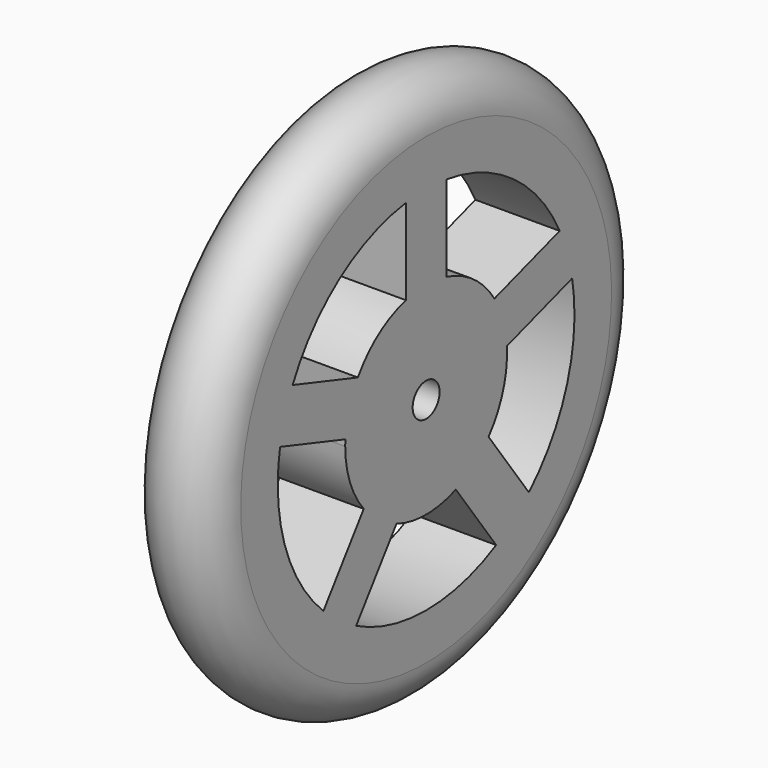
from build123d import *

# Parameters (mm, degrees)
F3_DEPTH = 25


with BuildPart() as f1:
    # F0 (on Front) → F1 (revolve)
    with BuildSketch(Plane.XZ):
        with BuildLine():
            Line((-10, 55), (-10, 4))
            Line((-10, 4), (10, 4))
            Line((10, 4), (10, 55))
            ThreePointArc((10, 55), (0, 45), (-10, 55))
        make_face()
        with BuildLine():
            ThreePointArc((10, 55), (0, 65), (-10, 55))
            ThreePointArc((-10, 55), (0, 45), (10, 55))
        make_face()
    revolve(axis=Axis((-12.7272796474, 0, 0), (1, 0, 0)))

    # F2 (on face) → F3 (cut)
    with BuildSketch(Plane(origin=(-10, 0, 0), x_dir=(0, -1, 0), z_dir=(-1, 0, 0))):
        with BuildLine():
            Line((-30.4750671187, -31.7375217071), (-18.5129969259, -15.2731445623))
            ThreePointArc((-18.5129969259, -15.2731445623), (-22.8253563911, -7.416407865), (-23.9546582597, 1.4745669397))
            Line((-23.9546582597, 1.4745669397), (-43.3096944075, 7.7633994054))
            ThreePointArc((-43.3096944075, 7.7633994054), (-41.846486717, -13.5967477525), (-30.4750671187, -31.7375217071))
        make_face()
        with BuildLine():
            Line((20.7668631862, -38.7909447346), (8.8047929934, -22.3265675898))
            ThreePointArc((8.8047929934, -22.3265675898), (0, -24), (-8.8047929934, -22.3265675898))
            Line((-8.8047929934, -22.3265675898), (-20.7668631862, -38.7909447346))
            ThreePointArc((-20.7668631862, -38.7909447346), (0, -44), (20.7668631862, -38.7909447346))
        make_face()
        with BuildLine():
            ThreePointArc((23.9546582597, 1.4745669397), (23.9886618867, 0.7376319429), (24, 0))
            ThreePointArc((24, 0), (22.5866323986, -8.1144338613), (18.5129969259, -15.2731445623))
            Line((18.5129969259, -15.2731445623), (30.4750671187, -31.7375217071))
            ThreePointArc((30.4750671187, -31.7375217071), (40.4777899176, -17.2495948761), (44, 0))
            ThreePointArc((44, 0), (43.8270838291, 3.8970146311), (43.3096944075, 7.7633994054))
            Line((43.3096944075, 7.7633994054), (23.9546582597, 1.4745669397))
        make_face()
        with BuildLine():
            ThreePointArc((-20.2464543272, 12.8872451352), (-14.106846055, 19.416407865), (-6, 23.2379000772))
            Line((-6, 23.2379000772), (-6, 43.5889894354))
            ThreePointArc((-6, 43.5889894354), (-25.8625511009, 35.5967477525), (-39.601490475, 19.1760776009))
            Line((-39.601490475, 19.1760776009), (-20.2464543272, 12.8872451352))
        make_face()
        with BuildLine():
            ThreePointArc((6, 23.2379000772), (14.106846055, 19.416407865), (20.2464543272, 12.8872451352))
            Line((20.2464543272, 12.8872451352), (39.601490475, 19.1760776009))
            ThreePointArc((39.601490475, 19.1760776009), (25.8625511009, 35.5967477525), (6, 43.5889894354))
            Line((6, 43.5889894354), (6, 23.2379000772))
        make_face()
    extrude(amount=-F3_DEPTH, mode=Mode.SUBTRACT)


solid = f1.part
